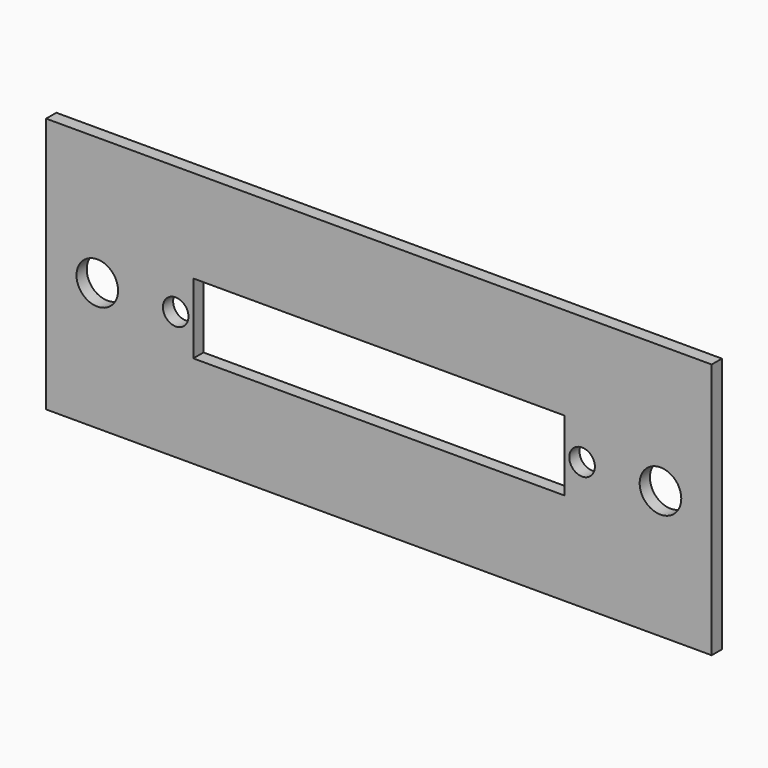
from build123d import *

# Parameters (mm, degrees)
F0_W     = 104
F0_H     = 40
F0_R     = 3.25
F0_R_2   = 2
F0_W_2   = 58
F0_H_2   = 11
F1_DEPTH = 2


with BuildPart() as f1:
    # F0 (on Front) → F1 (new body)
    with BuildSketch(Plane.XZ):
        Rectangle(F0_W, F0_H)
        with Locations((-44, 0)):
            Circle(F0_R, mode=Mode.SUBTRACT)
        with Locations((-31.75, 0)):
            Circle(F0_R_2, mode=Mode.SUBTRACT)
        Rectangle(F0_W_2, F0_H_2, mode=Mode.SUBTRACT)
        with Locations((31.75, 0)):
            Circle(F0_R_2, mode=Mode.SUBTRACT)
        with Locations((44, 0)):
            Circle(F0_R, mode=Mode.SUBTRACT)
    extrude(amount=F1_DEPTH)


solid = f1.part
